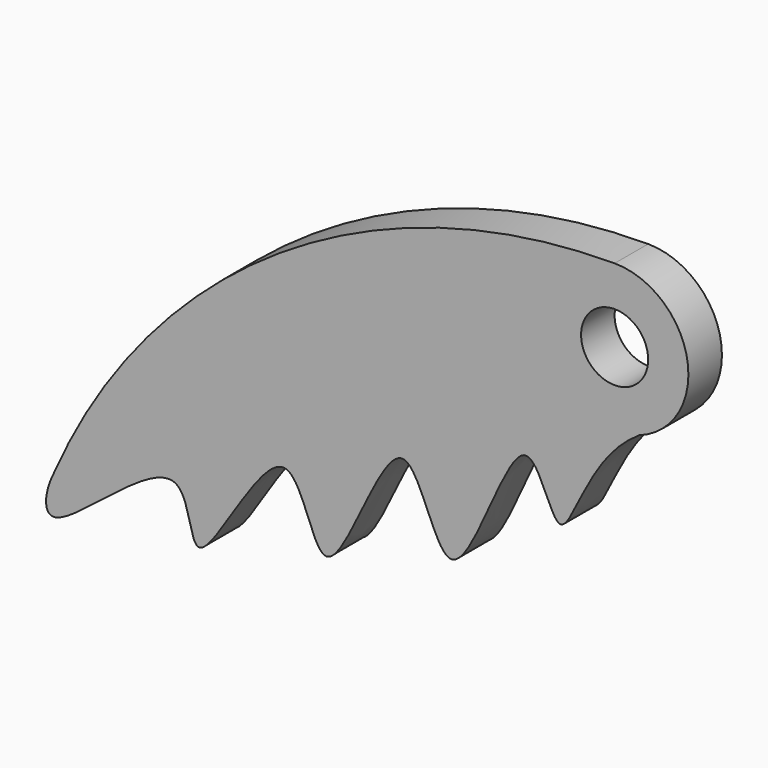
from build123d import *

# Parameters (mm, degrees)
F0_R     = 2.032
F1_DEPTH = 2.54


with BuildPart() as f1:
    # F0 (on Front) → F1 (new body)
    with BuildSketch(Plane.XZ):
        with BuildLine():
            add(Edge.make_bspline(
                [(1.4945195339, -4.2131802148), (-1.805871775, -6.3219087169), (-3.0612513389, -14.1493036864), (-5.5320999807, -3.2840724127), (-10.0024838999, -19.9902298634), (-12.7020772138, -4.7228386247), (-17.7110929859, -21.8786206026), (-19.5074188146, -8.1358273403), (-25.9476903739, -22.8207591481), (-25.5305452999, -12.2072332633), (-34.9003537181, -22.5466264257), (-34.555760513, -18.8985391449), (-33.9807841486, -17.7633688688)],
                knots=[0, 0, 0, 0, 0.1176615981, 0.1964492305, 0.3165765682, 0.4127832161, 0.5316473812, 0.6218652971, 0.7386446596, 0.8150515429, 0.9360705685, 1, 1, 1, 1], degree=3))
            ThreePointArc((1.4945195339, -4.2131802148), (4.4056257781, 0.75824644), (0, 4.4704))
            ThreePointArc((0, 4.4704), (-20.3041508654, -1.581930473), (-33.9807841486, -17.7633688688))
        make_face()
        Circle(F0_R, mode=Mode.SUBTRACT)
    extrude(amount=F1_DEPTH)


solid = f1.part
